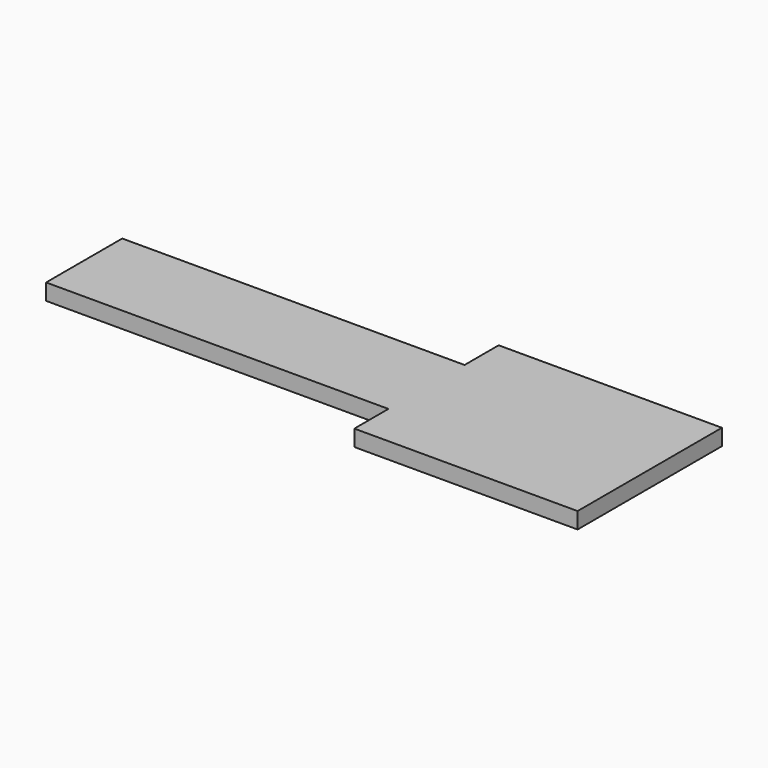
from build123d import *

# Parameters (mm, degrees)
F1_DEPTH = 4.572


with BuildPart() as f1:
    # F0 (on Top) → F1 (new body)
    with BuildSketch(Plane.XY):
        Polygon((-159.258, 0), (0, 0), (0, 25.4), (-62.865, 25.4), (-62.865, 13.40104), (-159.258, 13.40104), align=None)
    extrude(amount=F1_DEPTH)

    # F2: F1 across face


with BuildPart() as f1_1:
    add(f1.part)
    add(f1.part.mirror(Plane(origin=(-79.629, 0, 2.286), x_dir=(1, 0, 0), z_dir=(0, -1, 0))))


solid = f1_1.part
